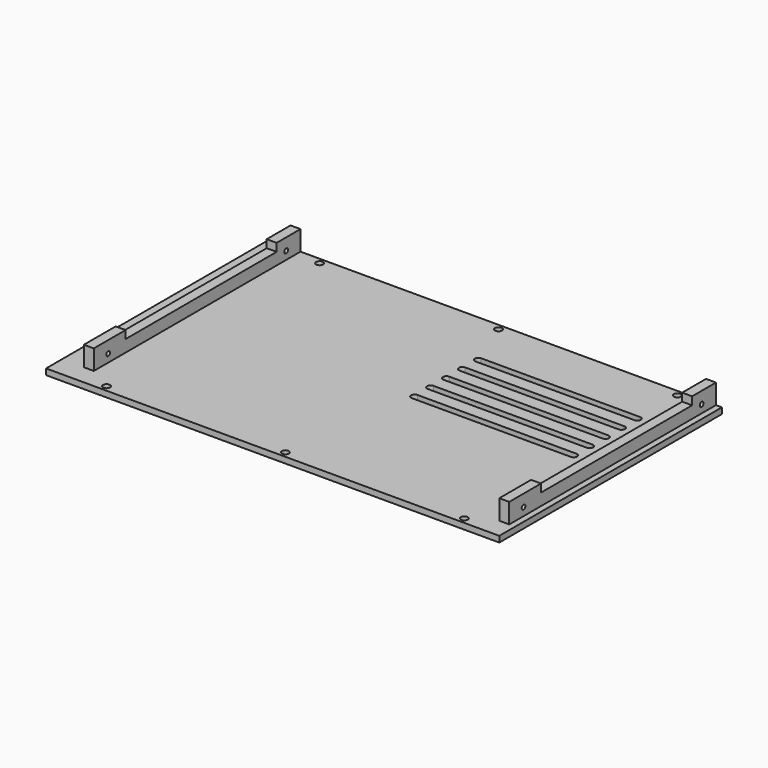
from build123d import *

# Parameters (mm, degrees)
SKETCH_W     = 228
SKETCH_H     = 140
SKETCH_R     = 1.75
PAD_DEPTH    = 3
SKETCH001_W  = 5
SKETCH001_H  = 130
PAD001_DEPTH = 10
SKETCH002_R  = 1.15
SKETCH002_W  = 95
SKETCH002_H  = 4
POCKET_DEPTH = 225


with BuildPart() as part:
    # Sketch → Pad (new body)
    with BuildSketch(Plane.XY):
        with Locations((-4, 0)):
            Rectangle(SKETCH_W, SKETCH_H)
        with Locations((-90, 67)):
            Circle(SKETCH_R, mode=Mode.SUBTRACT)
        with Locations((0, 67)):
            Circle(SKETCH_R, mode=Mode.SUBTRACT)
        with Locations((90, 67)):
            Circle(SKETCH_R, mode=Mode.SUBTRACT)
        with Locations((-90, -67)):
            Circle(SKETCH_R, mode=Mode.SUBTRACT)
        with Locations((0, -67)):
            Circle(SKETCH_R, mode=Mode.SUBTRACT)
        with Locations((90, -67)):
            Circle(SKETCH_R, mode=Mode.SUBTRACT)
        with BuildLine():
            ThreePointArc((10.059248, 43.499956), (8.309248, 41.749956), (10.059248, 39.999956))
            Line((10.059248, 39.999956), (90.059248, 39.999956))
            ThreePointArc((90.059248, 39.999956), (91.809248, 41.749956), (90.059248, 43.499956))
            Line((10.059248, 43.499956), (90.059248, 43.499956))
        make_face(mode=Mode.SUBTRACT)
        with BuildLine():
            ThreePointArc((10.044436, 33.499967), (8.294436, 31.749967), (10.044436, 29.999967))
            Line((10.044436, 29.999967), (90.044436, 29.999967))
            ThreePointArc((90.044436, 29.999967), (91.794436, 31.749967), (90.044436, 33.499967))
            Line((10.044436, 33.499967), (90.044436, 33.499967))
        make_face(mode=Mode.SUBTRACT)
        with BuildLine():
            ThreePointArc((10.029624, 23.499978), (8.279624, 21.749978), (10.029624, 19.999978))
            Line((10.029624, 19.999978), (90.029624, 19.999978))
            ThreePointArc((90.029624, 19.999978), (91.779624, 21.749978), (90.029624, 23.499978))
            Line((10.029624, 23.499978), (90.029624, 23.499978))
        make_face(mode=Mode.SUBTRACT)
        with BuildLine():
            ThreePointArc((10.014812, 13.499989), (8.264812, 11.749989), (10.014812, 9.999989))
            Line((10.014812, 9.999989), (90.014812, 9.999989))
            ThreePointArc((90.014812, 9.999989), (91.764812, 11.749989), (90.014812, 13.499989))
            Line((10.014812, 13.499989), (90.014812, 13.499989))
        make_face(mode=Mode.SUBTRACT)
        with BuildLine():
            ThreePointArc((10, 3.5), (8.25, 1.75), (10, 0))
            Line((10, 0), (90, 0))
            ThreePointArc((90, 0), (91.75, 1.75), (90, 3.5))
            Line((10, 3.5), (90, 3.5))
        make_face(mode=Mode.SUBTRACT)
    extrude(amount=PAD_DEPTH)

    # Sketch001 → Pad001 (join)
    with BuildSketch(Plane.XY.offset(3)):
        with Locations((104.5, 5)):
            Rectangle(SKETCH001_W, SKETCH001_H)
        with Locations((-104.5, 5)):
            Rectangle(SKETCH001_W, SKETCH001_H)
    extrude(amount=PAD001_DEPTH)

    # Sketch002 → Pocket (cut)
    with BuildSketch(Plane.YZ.offset(107)):
        with Locations((-51, 7)):
            Circle(SKETCH002_R)
        with Locations((61, 7)):
            Circle(SKETCH002_R)
        with Locations((7.5, 11)):
            Rectangle(SKETCH002_W, SKETCH002_H)
    extrude(amount=-POCKET_DEPTH, mode=Mode.SUBTRACT)


solid = part.part
